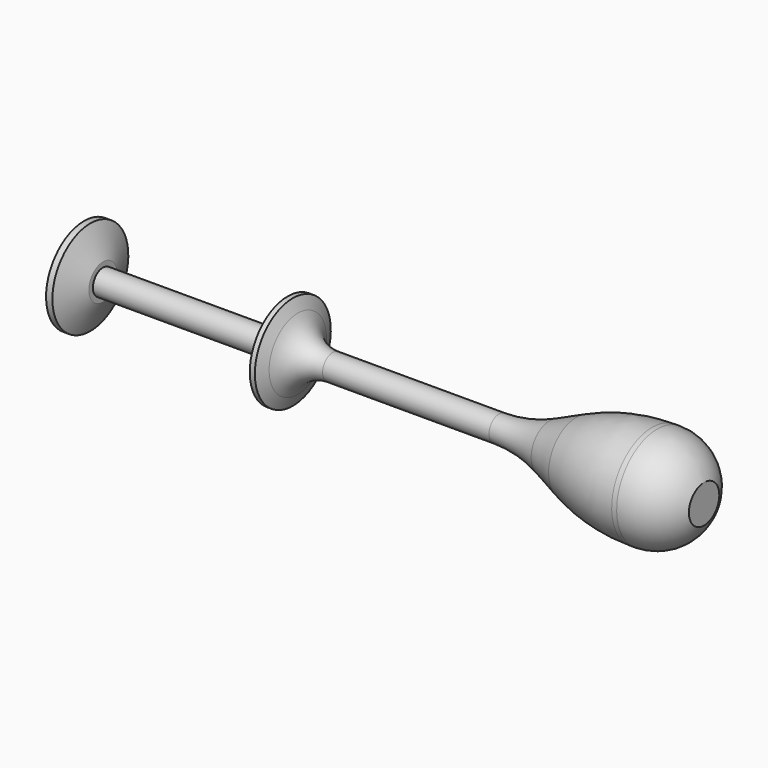
from build123d import *


with BuildPart() as f2:
    # F0 (on Front) → F2 (revolve)
    with BuildSketch(Plane.XZ):
        with BuildLine():
            Line((32, 2), (5, 2))
            Line((5, 2), (5, 2.8))
            Line((5, 2.8), (3, 7.5))
            Line((3, 7.5), (2, 7.5))
            Line((2, 7.5), (0, 3))
            Line((0, 3), (0, 0))
            Line((0, 0), (100, 0))
            Line((100, 0), (100, 3))
            ThreePointArc((100, 3), (97.0559374679, 6.6332495807), (92.5838015129, 8))
            Line((92.5838015129, 8), (91.794234764, 8))
            ThreePointArc((91.794234764, 8), (85.6765801804, 7.3696152919), (79.8160239901, 5.5049534931))
            Line((79.8160239901, 5.5049534931), (75.5872768908, 3.663364338))
            ThreePointArc((75.5872768908, 3.663364338), (71.6802394306, 2.420256472), (67.6018030415, 2))
            Line((67.6018030415, 2), (41.3047601065, 2))
            ThreePointArc((41.3047601065, 2), (37.9917983041, 2.9975721798), (35.7804760106, 5.6585719681))
            Line((35.7804760106, 5.6585719681), (35, 7.5))
            Line((35, 7.5), (34.2, 7.5))
            Line((34.2, 7.5), (32, 2.8))
            Line((32, 2.8), (32, 2))
        make_face()
    revolve(axis=Axis((33.3660393953, 0, 0), (1, 0, 0)))


solid = f2.part
